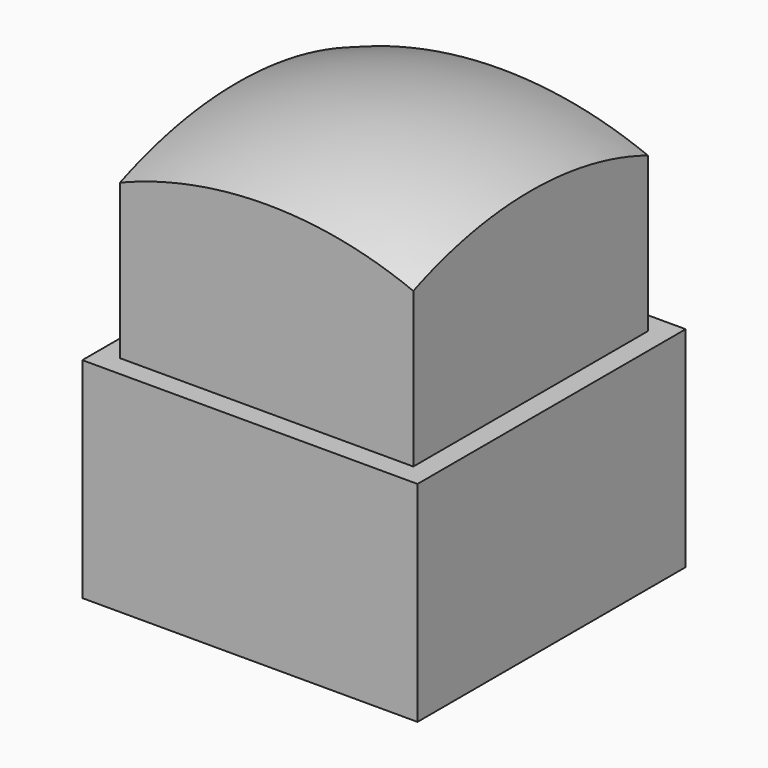
from build123d import *

# Parameters (mm, degrees)
BOX002_W     = 10
BOX002_H     = 10
BOX002_DEPTH = 16
BOX001_W     = 14
BOX001_H     = 14
BOX001_DEPTH = 10
BOX_W        = 16
BOX_H        = 16
BOX_DEPTH    = 10


with BuildPart() as cube001:
    # Box002 → Box002 (new body)
    with BuildSketch(Plane(origin=(-5, -5, 0), x_dir=(1, 0, 0), z_dir=(0, 0, 1))):
        with Locations((5, 5)):
            Rectangle(BOX002_W, BOX002_H)
    extrude(amount=BOX002_DEPTH)


with BuildPart() as cubo:
    # Box001 → Box001 (new body)
    with BuildSketch(Plane(origin=(-7, -7, 10), x_dir=(1, 0, 0), z_dir=(0, 0, 1))):
        with Locations((7, 7)):
            Rectangle(BOX001_W, BOX001_H)
    extrude(amount=BOX001_DEPTH)


with BuildPart() as common:
    # Sphere → Sphere (revolve)
    with BuildSketch(Plane.XZ):
        with BuildLine():
            ThreePointArc((0, -20), (20, 0), (0, 20))
            Line((0, 20), (0, -20))
        make_face()
    revolve(axis=Axis((0, 0, 0), (0, 0, 1)))

    # Common: intersect Cubo
    add(cubo.part, mode=Mode.INTERSECT)


with BuildPart() as cut:
    # Box → Box (new body)
    with BuildSketch(Plane(origin=(-8, -8, 0), x_dir=(1, 0, 0), z_dir=(0, 0, 1))):
        with Locations((8, 8)):
            Rectangle(BOX_W, BOX_H)
    extrude(amount=BOX_DEPTH)

    # Fusion: union Common
    add(common.part)

    # Cut: cut Cube001
    add(cube001.part, mode=Mode.SUBTRACT)


solid = cut.part
